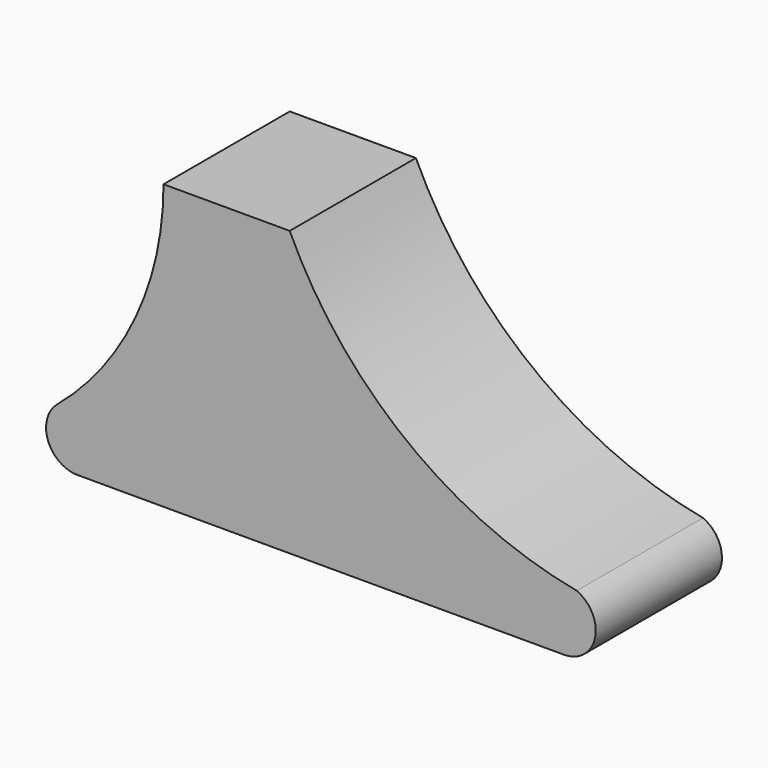
from build123d import *

# Parameters (mm, degrees)
F0_W     = 20
F0_H     = 45
F1_DEPTH = 25


with BuildPart() as f1:
    # F0 (on Front) → F1 (new body)
    with BuildSketch(Plane.XZ):
        with BuildLine():
            Line((0, -45), (0, 0))
            ThreePointArc((0, 0), (-4.414268, -19.949802), (-16.832935, -36.175002))
            ThreePointArc((-16.832935, -36.175002), (-18.309855, -41.713915), (-13.612782, -45))
            Line((-13.612782, -45), (0, -45))
        make_face()
        with Locations((10, -22.5)):
            Rectangle(F0_W, F0_H)
        with BuildLine():
            ThreePointArc((65.491798, -35.414037), (38.466638, -23.204028), (20, 0))
            Line((20, 0), (20, -45))
            Line((20, -45), (63.499577, -45))
            ThreePointArc((63.499577, -45), (68.394974, -41.017395), (65.491798, -35.414037))
        make_face()
    extrude(amount=F1_DEPTH)


solid = f1.part
